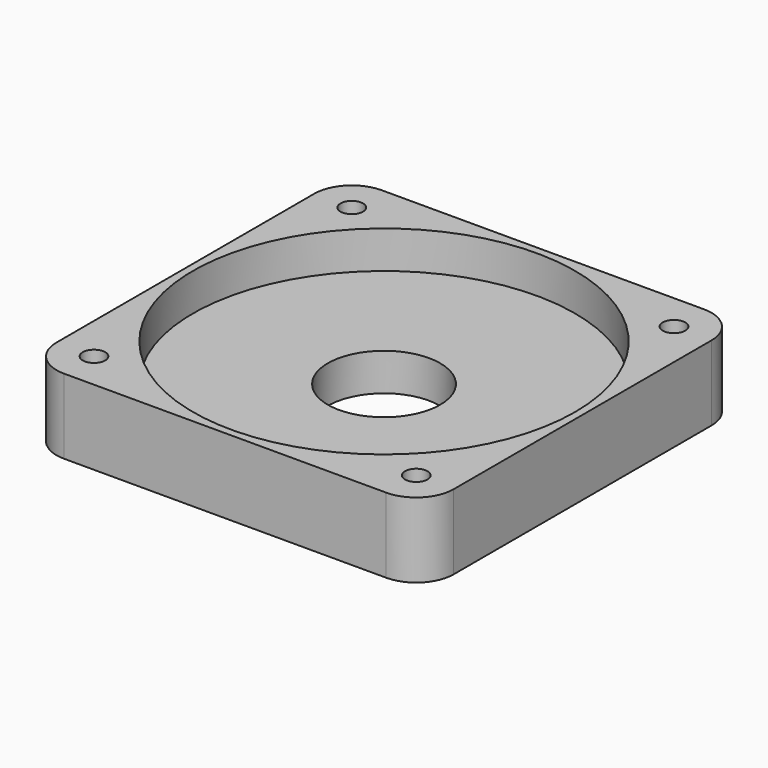
from build123d import *

# Parameters (mm, degrees)
F0_R           = 25.5
F1_DEPTH       = 10
F0_R_2         = 7.5
F2_DEPTH       = 5
F4_D           = 3
F4_DEPTH       = 11
F4_CSINK_D     = 5
F4_CSINK_ANGLE = 90


with BuildPart() as f1:
    # F0 (on Top) → F1 (new body)
    with BuildSketch(Plane.XY):
        with BuildLine():
            Line((21.5, 26.5), (-21.5, 26.5))
            ThreePointArc((-21.5, 26.5), (-25.035534, 25.035534), (-26.5, 21.5))
            Line((-26.5, 21.5), (-26.5, -21.5))
            ThreePointArc((-26.5, -21.5), (-25.035534, -25.035534), (-21.5, -26.5))
            Line((-21.5, -26.5), (21.5, -26.5))
            ThreePointArc((21.5, -26.5), (25.035534, -25.035534), (26.5, -21.5))
            Line((26.5, -21.5), (26.5, 21.5))
            ThreePointArc((26.5, 21.5), (25.035534, 25.035534), (21.5, 26.5))
        make_face()
        Circle(F0_R, mode=Mode.SUBTRACT)
    extrude(amount=F1_DEPTH)

    # F0 (on Top) → F2 (join)
    with BuildSketch(Plane.XY):
        Circle(F0_R)
        Circle(F0_R_2, mode=Mode.SUBTRACT)
    extrude(amount=F2_DEPTH)

    # F4
    with Locations(Plane(origin=(0, 0, 0), x_dir=(1, 0, 0), z_dir=(0, 0, -1))):
        with Locations((-21.5, 21.5), (-21.5, -21.5), (21.5, -21.5), (21.5, 21.5)):
            CounterSinkHole(F4_D / 2, F4_CSINK_D / 2, depth=F4_DEPTH, counter_sink_angle=F4_CSINK_ANGLE)


solid = f1.part
